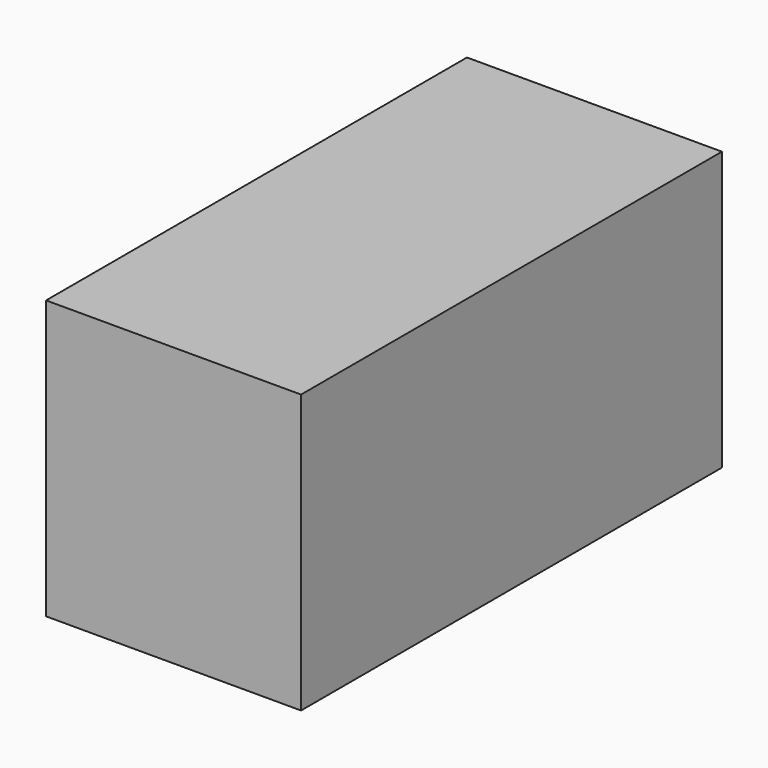
from build123d import *

# Parameters (mm, degrees)
F0_W     = 26.616216
F0_H     = 29.036254
F1_DEPTH = 54.917404
F2_T     = -0.254


with BuildPart() as f1:
    # F0 (on Front) → F1 (new body)
    with BuildSketch(Plane.XZ):
        Rectangle(F0_W, F0_H)
    extrude(amount=-F1_DEPTH)

    # F2
    f2_openings = [f1.faces().sort_by_distance(p)[0] for p in [
        (0, 54.917404, 0),
    ]]
    offset(amount=F2_T, openings=f2_openings)


solid = f1.part
